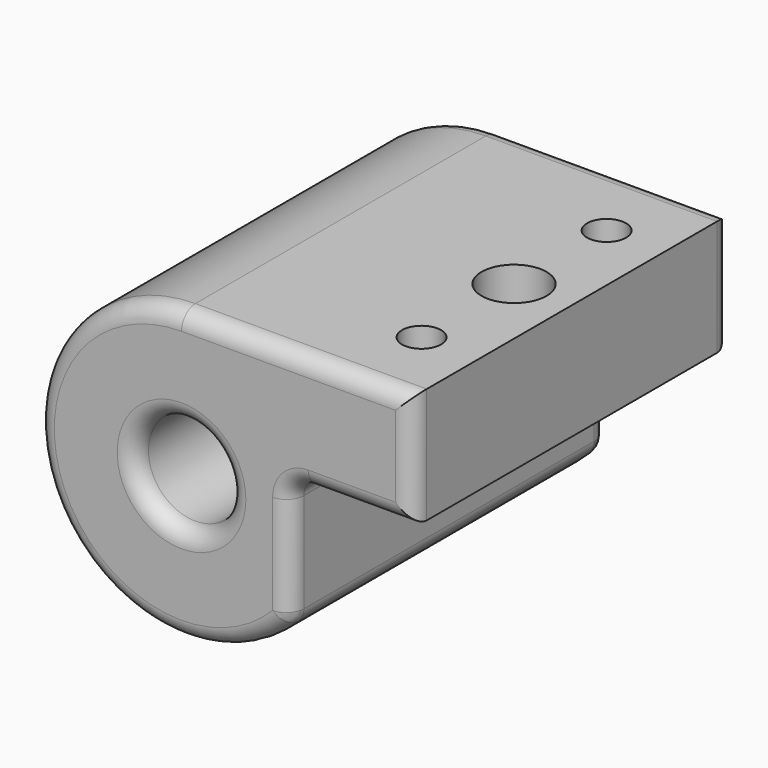
from build123d import *

# Parameters (mm, degrees)
F0_R     = 4.1275
F1_DEPTH = 34.925
F2_R     = 2.8575
F2_R_2   = 1.7145
F3_DEPTH = 25.4
F4_R     = 1.6002
F5_R     = 1.524
F6_R     = 1.524
F7_R     = 1.524


with BuildPart() as f1:
    # F0 (on Front) → F1 (new body)
    with BuildSketch(Plane.XZ):
        with BuildLine():
            Line((20.32, 12.7), (0, 12.7))
            ThreePointArc((0, 12.7), (-11.57526, -5.22526), (9.525, -8.40026))
            Line((9.525, -8.40026), (9.525, 2.54))
            Line((9.525, 2.54), (12.443408, 2.54))
            Line((12.443408, 2.54), (20.32, 2.54))
            Line((20.32, 2.54), (20.32, 12.7))
        make_face()
        Circle(F0_R, mode=Mode.SUBTRACT)
    extrude(amount=F1_DEPTH)

    # F2 (on face) → F3 (cut)
    with BuildSketch(Plane.XY.offset(12.7)):
        with Locations((15.24, -17.4625)):
            Circle(F2_R)
        with Locations((15.24, -27.6225)):
            Circle(F2_R_2)
        with Locations((15.24, -7.3025)):
            Circle(F2_R_2)
    extrude(amount=-F3_DEPTH, mode=Mode.SUBTRACT)

    # F4
    f4_edges = [f1.edges().sort_by_distance(p)[0] for p in [
        (9.525, -17.4625, 2.54),
    ]]
    fillet(f4_edges, radius=F4_R)

    # F5
    f5_edges = [f1.edges().sort_by_distance(p)[0] for p in [
        (9.525, -34.925, -3.73023),
        (9.993688, -34.925, 2.071312),
        (-11.57526, -34.925, -5.22526),
        (15.7226, -34.925, 2.54),
        (10.16, -34.925, 12.7),
        (20.32, -34.925, 7.62),
        (-4.1275, -34.925, 0),
    ]]
    fillet(f5_edges, radius=F5_R)

    # F6
    f6_edges = [f1.edges().sort_by_distance(p)[0] for p in [
        (9.525, 0, -3.73023),
        (9.993688, 0, 2.071312),
        (-11.57526, 0, -5.22526),
        (15.7226, 0, 2.54),
        (10.16, 0, 12.7),
        (20.32, 0, 7.62),
        (-4.1275, 0, 0),
    ]]
    fillet(f6_edges, radius=F6_R)

    # F7
    f7_edges = [f1.edges().sort_by_distance(p)[0] for p in [
        (9.525, -17.4625, -8.40026),
    ]]
    fillet(f7_edges, radius=F7_R)


solid = f1.part
